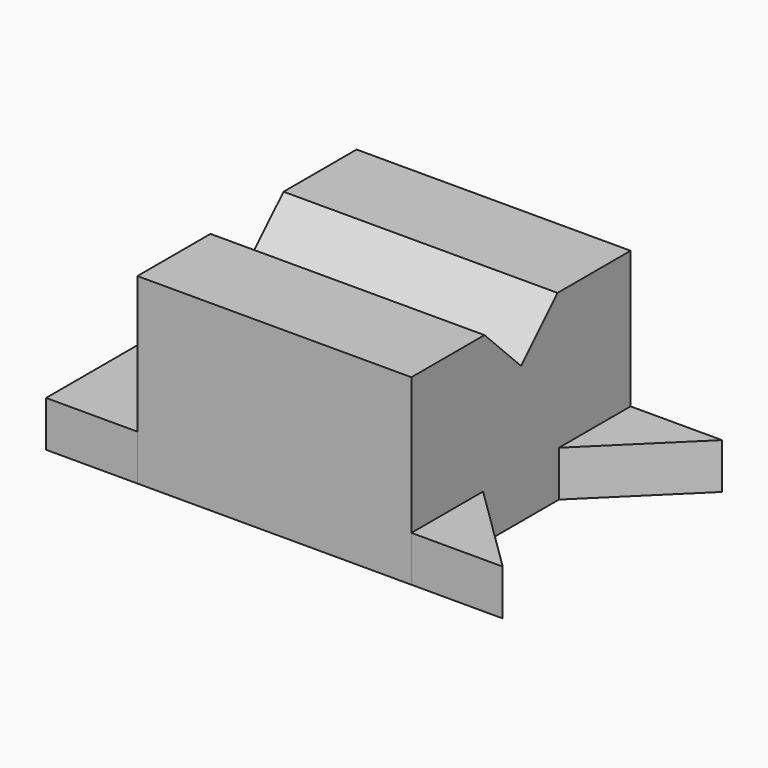
from build123d import *

# Parameters (mm, degrees)
F1_DEPTH = 12.7
F2_DEPTH = 12.7
F3_DEPTH = 50.8
F5_DEPTH = 101.601


with BuildPart() as f1:
    # F0 (on Top) → F1 (new body)
    with BuildSketch(Plane.XY):
        Polygon((70.704034, -45.151241), (45.304034, -20.230069), (45.304034, -45.151241), align=None)
        Polygon((70.704034, 31.048759), (45.304034, 31.048759), (45.304034, 6.127586), align=None)
    extrude(amount=F1_DEPTH)


with BuildPart() as f2:
    # F0 (on Top) → F2 (new body)
    with BuildSketch(Plane.XY):
        Polygon((70.704034, -45.151241), (45.304034, -20.230069), (45.304034, -45.151241), align=None)
        Polygon((70.704034, 31.048759), (45.304034, 31.048759), (45.304034, 6.127586), align=None)
        Polygon((-30.895966, 6.127586), (-30.895966, 31.048759), (-56.295966, 31.048759), (-56.295966, -45.151241), (-30.895966, -45.151241), (-30.895966, -20.230069), align=None)
    extrude(amount=F2_DEPTH)


with BuildPart() as f3:
    # F0 (on Top) → F3 (new body)
    with BuildSketch(Plane.XY):
        Polygon((45.304034, 31.048759), (-30.895966, 31.048759), (-30.895966, 6.127586), (-30.895966, -20.230069), (-30.895966, -45.151241), (45.304034, -45.151241), (45.304034, -20.230069), (45.304034, 6.127586), align=None)
    extrude(amount=F3_DEPTH)

    # F4 (on face) → F5 (cut, through all)
    with BuildSketch(Plane.YZ.offset(45.304034)):
        Polygon((5.648759, 50.8), (-19.751241, 50.8), (-7.051241, 38.1), align=None)
    extrude(amount=-F5_DEPTH, mode=Mode.SUBTRACT)


solid = Compound([f1.part, f2.part, f3.part])
